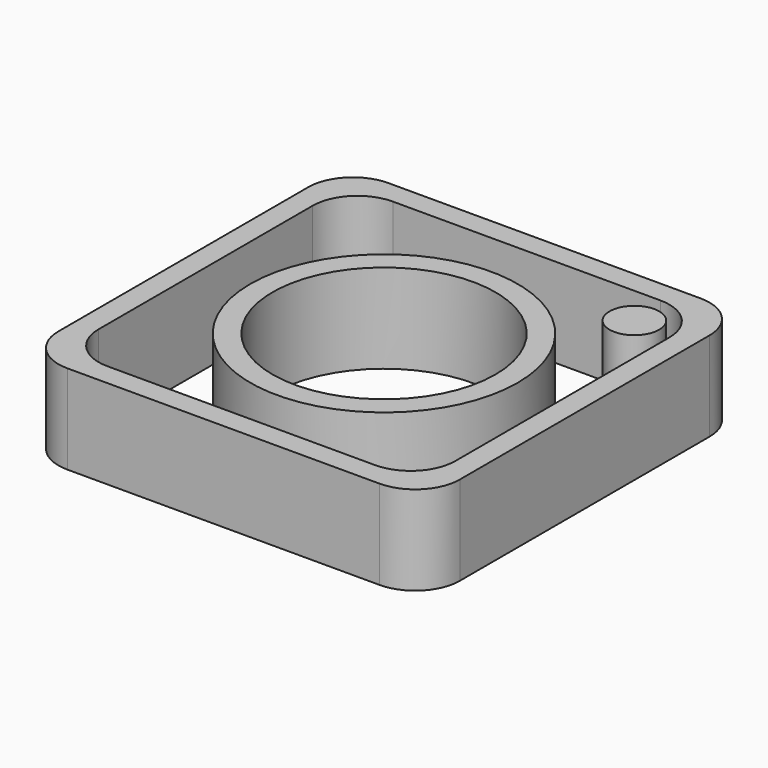
from build123d import *

# Parameters (mm, degrees)
F0_W     = 114.3
F0_H     = 114.3
F0_W_2   = 101.6
F0_H_2   = 101.6
F0_R     = 38.1
F0_R_2   = 31.75
F0_R_3   = 7.083114
F1_DEPTH = 25.4
F2_R     = 12.7


with BuildPart() as f1:
    # F0 (on Top) → F1 (new body)
    with BuildSketch(Plane.XY):
        Rectangle(F0_W, F0_H)
        Rectangle(F0_W_2, F0_H_2, mode=Mode.SUBTRACT)
        Circle(F0_R)
        Circle(F0_R_2, mode=Mode.SUBTRACT)
        with Locations((39.628297, 39.628297)):
            Circle(F0_R_3)
    extrude(amount=F1_DEPTH)

    # F2
    f2_edges = [f1.edges().sort_by_distance(p)[0] for p in [
        (-57.15, -57.15, 12.7),
        (-50.8, 50.8, 12.7),
        (-50.8, -50.8, 12.7),
        (50.8, 50.8, 12.7),
        (57.15, -57.15, 12.7),
        (-57.15, 57.15, 12.7),
        (57.15, 57.15, 12.7),
        (50.8, -50.8, 12.7),
    ]]
    fillet(f2_edges, radius=F2_R)


solid = f1.part
